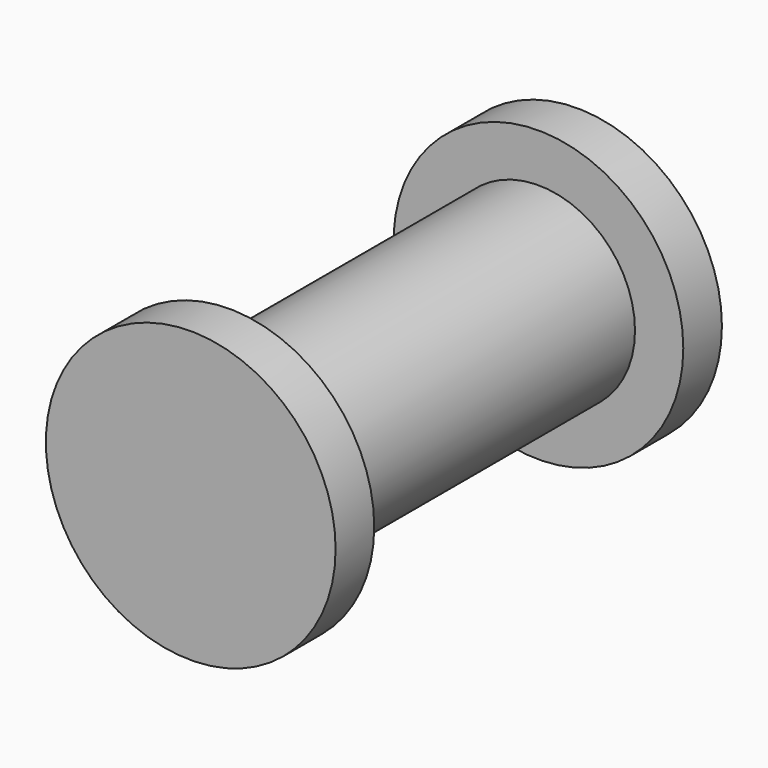
from build123d import *

# Parameters (mm, degrees)
F0_R     = 10
F1_DEPTH = 20
F2_R     = 15
F3_DEPTH = 5


with BuildPart() as f1:
    # F0 (on Front) → F1 (new body)
    with BuildSketch(Plane.XZ):
        Circle(F0_R)
    extrude(amount=F1_DEPTH)

    # F2 (on face) → F3 (join)
    with BuildSketch(Plane.XZ.offset(20)):
        Circle(F2_R)
    extrude(amount=F3_DEPTH)

    # F4: F1 across face


with BuildPart() as f1_1:
    add(f1.part)
    add(f1.part.mirror(Plane(origin=(0, 0, 0), x_dir=(1, 0, 0), z_dir=(0, 1, 0))))


solid = f1_1.part
